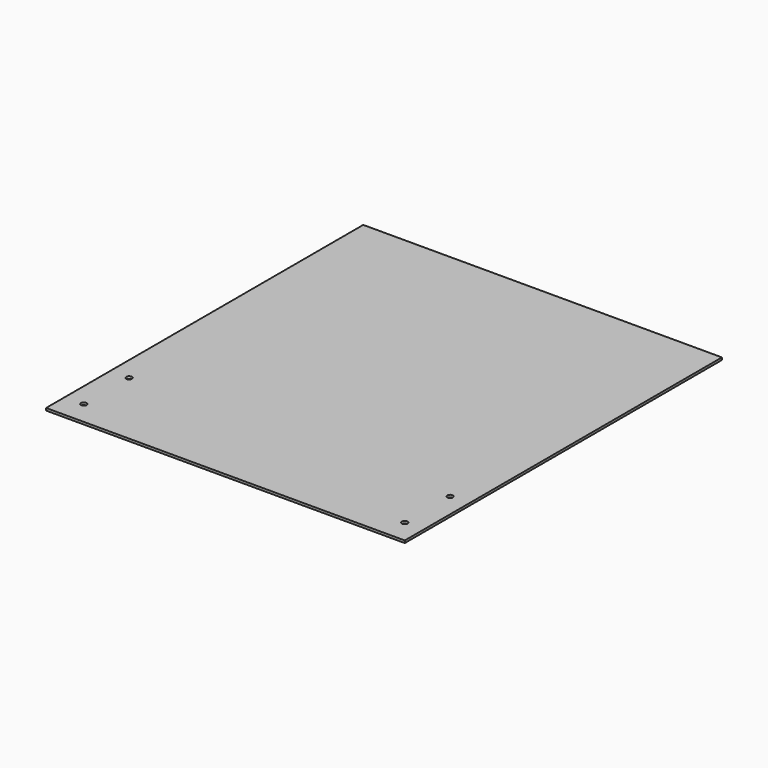
from build123d import *

# Parameters (mm, degrees)
F0_W     = 482.6
F0_H     = 533.4
F1_DEPTH = 3.175
F2_R     = 3.81
F3_DEPTH = 3.175


with BuildPart() as f1:
    # F0 (on Top) → F1 (new body)
    with BuildSketch(Plane.XY):
        with Locations((241.3, -266.7)):
            Rectangle(F0_W, F0_H)
    extrude(amount=-F1_DEPTH)

    # F2 (on face) → F3 (cut, through all)
    with BuildSketch(Plane.XY):
        with Locations((25.4, -425.45)):
            Circle(F2_R)
        with Locations((457.2, -425.45)):
            Circle(F2_R)
        with Locations((457.2, -501.65)):
            Circle(F2_R)
        with Locations((25.4, -501.65)):
            Circle(F2_R)
    extrude(amount=-F3_DEPTH, mode=Mode.SUBTRACT)


solid = f1.part
